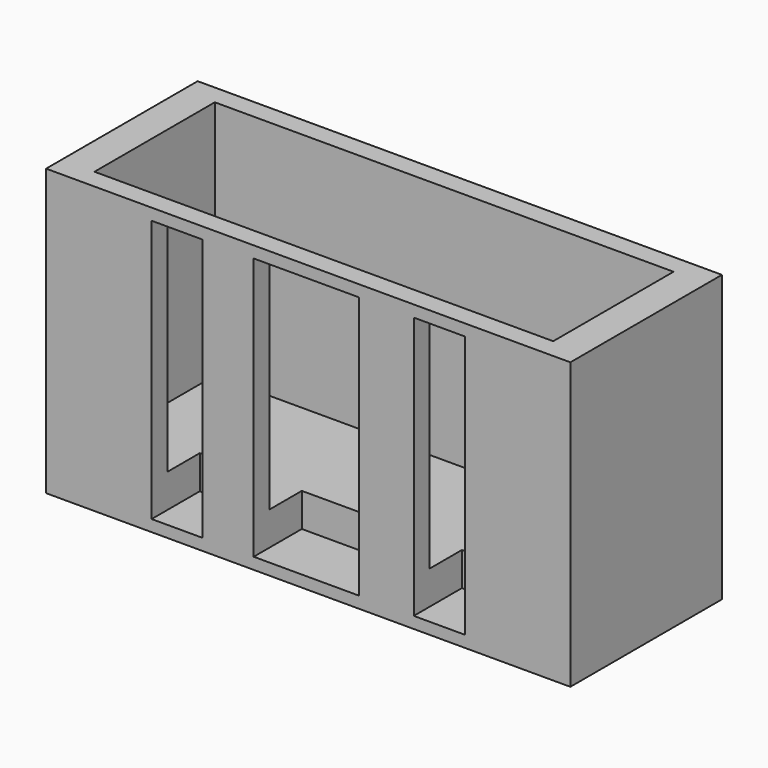
from build123d import *

# Parameters (mm, degrees)
F0_W     = 221.4017361403
F0_H     = 80.0100043416
F1_DEPTH = 19.05
F2_W     = 193.7265191227
F2_H     = 8.2453042269
F2_W_2   = 38.5067253374
F2_W_3   = 28.581820894
F2_W_4   = 19.8498088866
F3_DEPTH = 101.6
F4_W     = 21.5490460396
F4_H     = 110.8987255699
F4_W_2   = 44.5759110153
F5_DEPTH = 25.4


with BuildPart() as f1:
    # F0 (on Top) → F1 (new body)
    with BuildSketch(Plane.XY):
        Rectangle(F0_W, F0_H)
    extrude(amount=F1_DEPTH)

    # F2 (on face) → F3 (join)
    with BuildSketch(Plane.XY.offset(19.05)):
        Polygon((-96.8632595614, 31.7596979439), (-96.8632595614, 40.0050021708), (-110.7008680701, 40.0050021708), (-110.7008680701, -40.0050021708), (-96.8632595614, -40.0050021708), (-96.8632595614, -31.7596979439), align=None)
        with Locations((0, 35.8823500574)):
            Rectangle(F2_W, F2_H)
        Polygon((110.7008680701, 40.0050021708), (96.8632595614, 40.0050021708), (96.8632595614, 31.7596979439), (96.8632595614, -31.7596979439), (96.8632595614, -40.0050021708), (110.7008680701, -40.0050021708), align=None)
        with Locations((29.178267112, -35.8823500574)):
            Rectangle(F2_W_2, F2_H)
        with Locations((-29.178267112, -35.8823500574)):
            Rectangle(F2_W_2, F2_H)
        with Locations((-82.5723491143, -35.8823500574)):
            Rectangle(F2_W_3, F2_H)
        with Locations((-58.356534224, -35.8823500574)):
            Rectangle(F2_W_4, F2_H)
        with Locations((0, -35.8823500574)):
            Rectangle(F2_W_4, F2_H)
        with Locations((58.356534224, -35.8823500574)):
            Rectangle(F2_W_4, F2_H)
        with Locations((82.5723491143, -35.8823500574)):
            Rectangle(F2_W_3, F2_H)
    extrude(amount=F3_DEPTH)

    # F4 (on face) → F5 (cut)
    with BuildSketch(Plane.XZ.offset(40.0050021708)):
        with Locations((-55.3504340351, 60.326162785)):
            Rectangle(F4_W, F4_H)
        with Locations((-0.7389094681, 60.326162785)):
            Rectangle(F4_W_2, F4_H)
        with Locations((55.3504340351, 60.326162785)):
            Rectangle(F4_W, F4_H)
    extrude(amount=-F5_DEPTH, mode=Mode.SUBTRACT)


solid = f1.part
